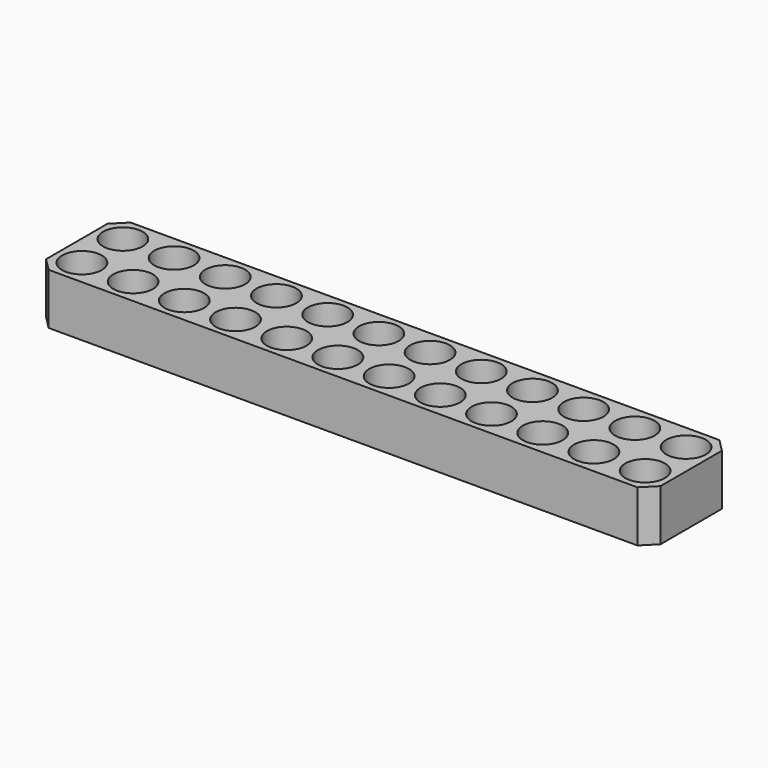
from build123d import *

# Parameters (mm, degrees)
F0_W     = 304.8
F0_H     = 50.8
F1_DEPTH = 25.4
F2_SIZE  = 6.35
F3_R     = 9.8425
F4_DEPTH = 21.59


with BuildPart() as f1:
    # F0 (on Top) → F1 (new body)
    with BuildSketch(Plane.XY):
        with Locations((-152.4, -25.4)):
            Rectangle(F0_W, F0_H)
    extrude(amount=-F1_DEPTH)

    # F2
    f2_edges = [f1.edges().sort_by_distance(p)[0] for p in [
        (0, 0, -12.7),
        (0, -50.8, -12.7),
        (-304.8, -50.8, -12.7),
        (-304.8, 0, -12.7),
    ]]
    chamfer(f2_edges, length=F2_SIZE)

    # F3 (on face) → F4 (cut)
    with BuildSketch(Plane.XY):
        with Locations((-12.7, -12.7)):
            Circle(F3_R)
        with Locations((-12.7, -38.1)):
            Circle(F3_R)
        with Locations((-38.1, -12.7)):
            Circle(F3_R)
        with Locations((-38.1, -38.1)):
            Circle(F3_R)
        with Locations((-63.5, -12.7)):
            Circle(F3_R)
        with Locations((-63.5, -38.1)):
            Circle(F3_R)
        with Locations((-88.9, -12.7)):
            Circle(F3_R)
        with Locations((-88.9, -38.1)):
            Circle(F3_R)
        with Locations((-114.3, -12.7)):
            Circle(F3_R)
        with Locations((-114.3, -38.1)):
            Circle(F3_R)
        with Locations((-139.7, -12.7)):
            Circle(F3_R)
        with Locations((-139.7, -38.1)):
            Circle(F3_R)
        with Locations((-165.1, -12.7)):
            Circle(F3_R)
        with Locations((-165.1, -38.1)):
            Circle(F3_R)
        with Locations((-190.5, -12.7)):
            Circle(F3_R)
        with Locations((-190.5, -38.1)):
            Circle(F3_R)
        with Locations((-215.9, -12.7)):
            Circle(F3_R)
        with Locations((-215.9, -38.1)):
            Circle(F3_R)
        with Locations((-241.3, -12.7)):
            Circle(F3_R)
        with Locations((-241.3, -38.1)):
            Circle(F3_R)
        with Locations((-266.7, -12.7)):
            Circle(F3_R)
        with Locations((-266.7, -38.1)):
            Circle(F3_R)
        with Locations((-292.1, -12.7)):
            Circle(F3_R)
        with Locations((-292.1, -38.1)):
            Circle(F3_R)
    extrude(amount=-F4_DEPTH, mode=Mode.SUBTRACT)


solid = f1.part
